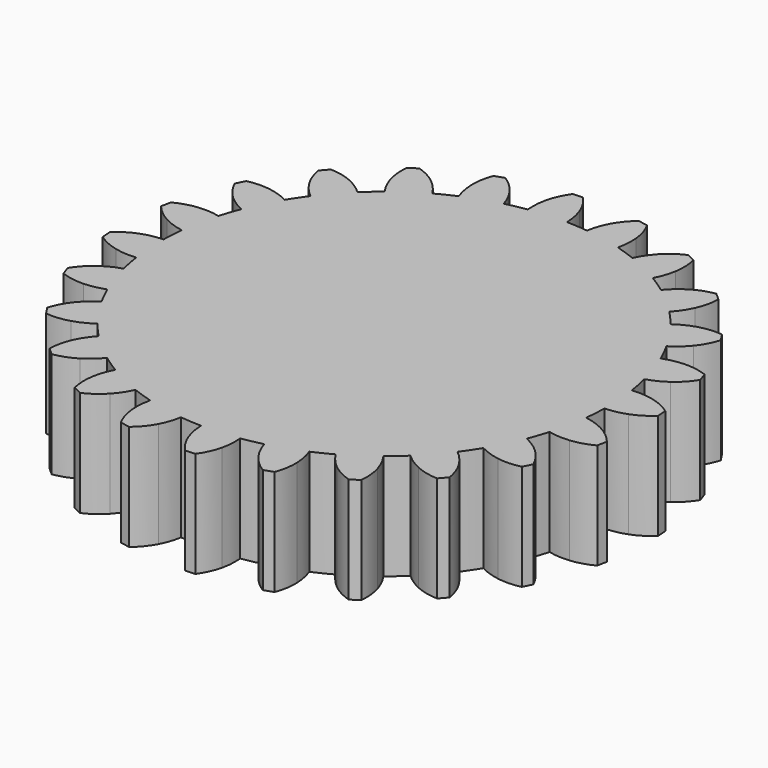
from build123d import *

# Parameters (mm, degrees)
F1_DEPTH = 10


with BuildPart() as f1:
    # F0 (on Top) → F1 (new body)
    with BuildSketch(Plane.XY):
        with BuildLine():
            ThreePointArc((21.146529, -0.383149), (21.149132, -0.191582), (21.15, 0))
            ThreePointArc((21.15, 0), (21.09132, 1.574391), (20.915607, 3.140047))
            ThreePointArc((20.915607, 3.140047), (20.743609, 4.12616), (20.525145, 5.103031))
            ThreePointArc((20.525145, 5.103031), (20.027572, 6.798445), (19.390221, 8.44641))
            ThreePointArc((19.390221, 8.44641), (18.968858, 9.354406), (18.505006, 10.241448))
            ThreePointArc((18.505006, 10.241448), (17.585582, 11.75031), (16.543423, 13.177164))
            ThreePointArc((16.543423, 13.177164), (15.901412, 13.945164), (15.223781, 14.681927))
            ThreePointArc((15.223781, 14.681927), (13.945164, 15.901412), (12.569219, 17.009916))
            ThreePointArc((12.569219, 17.009916), (11.75031, 17.585582), (10.905081, 18.121857))
            ThreePointArc((10.905081, 18.121857), (9.354406, 18.968858), (7.738443, 19.68347))
            ThreePointArc((7.738443, 19.68347), (6.798445, 20.027572), (5.843218, 20.326812))
            ThreePointArc((5.843218, 20.326812), (4.12616, 20.743609), (2.380305, 21.015629))
            ThreePointArc((2.380305, 21.015629), (1.383276, 21.104716), (0.383149, 21.146529))
            ThreePointArc((0.383149, 21.146529), (-1.383276, 21.104716), (-3.140047, 20.915607))
            ThreePointArc((-3.140047, 20.915607), (-4.12616, 20.743609), (-5.103031, 20.525145))
            ThreePointArc((-5.103031, 20.525145), (-6.798445, 20.027572), (-8.44641, 19.390221))
            ThreePointArc((-8.44641, 19.390221), (-9.354406, 18.968858), (-10.241448, 18.505006))
            ThreePointArc((-10.241448, 18.505006), (-11.75031, 17.585582), (-13.177164, 16.543423))
            ThreePointArc((-13.177164, 16.543423), (-13.945164, 15.901412), (-14.681927, 15.223781))
            ThreePointArc((-14.681927, 15.223781), (-15.901412, 13.945164), (-17.009916, 12.569219))
            ThreePointArc((-17.009916, 12.569219), (-17.585582, 11.75031), (-18.121857, 10.905081))
            ThreePointArc((-18.121857, 10.905081), (-18.968858, 9.354406), (-19.68347, 7.738443))
            ThreePointArc((-19.68347, 7.738443), (-20.027572, 6.798445), (-20.326812, 5.843218))
            ThreePointArc((-20.326812, 5.843218), (-20.743609, 4.12616), (-21.015629, 2.380305))
            ThreePointArc((-21.015629, 2.380305), (-21.104716, 1.383276), (-21.146529, 0.383149))
            ThreePointArc((-21.146529, 0.383149), (-21.104716, -1.383276), (-20.915607, -3.140047))
            ThreePointArc((-20.915607, -3.140047), (-20.743609, -4.12616), (-20.525145, -5.103031))
            ThreePointArc((-20.525145, -5.103031), (-20.027572, -6.798445), (-19.390221, -8.44641))
            ThreePointArc((-19.390221, -8.44641), (-18.968858, -9.354406), (-18.505006, -10.241448))
            ThreePointArc((-18.505006, -10.241448), (-17.585582, -11.75031), (-16.543423, -13.177164))
            ThreePointArc((-16.543423, -13.177164), (-15.901412, -13.945164), (-15.223781, -14.681927))
            ThreePointArc((-15.223781, -14.681927), (-13.945164, -15.901412), (-12.569219, -17.009916))
            ThreePointArc((-12.569219, -17.009916), (-11.75031, -17.585582), (-10.905081, -18.121857))
            ThreePointArc((-10.905081, -18.121857), (-9.354406, -18.968858), (-7.738443, -19.68347))
            ThreePointArc((-7.738443, -19.68347), (-6.798445, -20.027572), (-5.843218, -20.326812))
            ThreePointArc((-5.843218, -20.326812), (-4.12616, -20.743609), (-2.380305, -21.015629))
            ThreePointArc((-2.380305, -21.015629), (-1.383276, -21.104716), (-0.383149, -21.146529))
            ThreePointArc((-0.383149, -21.146529), (1.383276, -21.104716), (3.140047, -20.915607))
            ThreePointArc((3.140047, -20.915607), (4.12616, -20.743609), (5.103031, -20.525145))
            ThreePointArc((5.103031, -20.525145), (6.798445, -20.027572), (8.44641, -19.390221))
            ThreePointArc((8.44641, -19.390221), (9.354406, -18.968858), (10.241448, -18.505006))
            ThreePointArc((10.241448, -18.505006), (11.75031, -17.585582), (13.177164, -16.543423))
            ThreePointArc((13.177164, -16.543423), (13.945164, -15.901412), (14.681927, -15.223781))
            ThreePointArc((14.681927, -15.223781), (15.901412, -13.945164), (17.009916, -12.569219))
            ThreePointArc((17.009916, -12.569219), (17.585582, -11.75031), (18.121857, -10.905081))
            ThreePointArc((18.121857, -10.905081), (18.968858, -9.354406), (19.68347, -7.738443))
            ThreePointArc((19.68347, -7.738443), (20.027572, -6.798445), (20.326812, -5.843218))
            ThreePointArc((20.326812, -5.843218), (20.743609, -4.12616), (21.015629, -2.380305))
            ThreePointArc((21.015629, -2.380305), (21.104716, -1.383276), (21.146529, -0.383149))
        make_face()
        with BuildLine():
            ThreePointArc((20.915607, 3.140047), (21.09132, 1.574391), (21.15, 0))
            ThreePointArc((21.15, 0), (21.149132, -0.191582), (21.146529, -0.383149))
            ThreePointArc((21.146529, -0.383149), (22.13915, -0.272568), (23.1, 0))
            ThreePointArc((23.1, 0), (24.094941, 0.491706), (24.972559, 1.171021))
            Line((24.972559, 1.171021), (24.911764, 2.09857))
            ThreePointArc((24.911764, 2.09857), (23.952986, 2.657522), (22.902376, 3.015155))
            ThreePointArc((22.902376, 3.015155), (21.91417, 3.159975), (20.915607, 3.140047))
        make_face()
        with BuildLine():
            ThreePointArc((19.390221, 8.44641), (20.027572, 6.798445), (20.525145, 5.103031))
            ThreePointArc((20.525145, 5.103031), (21.455323, 5.466753), (22.312887, 5.97872))
            ThreePointArc((22.312887, 5.97872), (23.146663, 6.711181), (23.818557, 7.594494))
            Line((23.818557, 7.594494), (23.519767, 8.474702))
            ThreePointArc((23.519767, 8.474702), (22.448991, 8.766458), (21.341617, 8.839987))
            ThreePointArc((21.341617, 8.839987), (20.349601, 8.724106), (19.390221, 8.44641))
        make_face()
        with BuildLine():
            ThreePointArc((22.902376, -3.015155), (21.985324, -2.619503), (21.015629, -2.380305))
            ThreePointArc((21.015629, -2.380305), (20.743609, -4.12616), (20.326812, -5.843218))
            ThreePointArc((20.326812, -5.843218), (21.314231, -5.993314), (22.312887, -5.97872))
            ThreePointArc((22.312887, -5.97872), (23.401189, -5.761278), (24.424722, -5.332254))
            Line((24.424722, -5.332254), (24.606066, -4.420576))
            ThreePointArc((24.606066, -4.420576), (23.824625, -3.63252), (22.902376, -3.015155))
        make_face()
        with BuildLine():
            ThreePointArc((16.543423, 13.177164), (17.585582, 11.75031), (18.505006, 10.241448))
            ThreePointArc((18.505006, 10.241448), (19.309351, 10.833524), (20.005187, 11.55))
            ThreePointArc((20.005187, 11.55), (20.620978, 12.4733), (21.04136, 13.500414))
            Line((21.04136, 13.500414), (20.524936, 14.273297))
            ThreePointArc((20.524936, 14.273297), (19.415134, 14.277974), (18.326462, 14.062389))
            ThreePointArc((18.326462, 14.062389), (17.39824, 13.693704), (16.543423, 13.177164))
        make_face()
        with BuildLine():
            ThreePointArc((21.341617, -8.839987), (20.558215, -8.220466), (19.68347, -7.738443))
            ThreePointArc((19.68347, -7.738443), (18.968858, -9.354406), (18.121857, -10.905081))
            ThreePointArc((18.121857, -10.905081), (19.036783, -11.305626), (20.005187, -11.55))
            ThreePointArc((20.005187, -11.55), (21.112684, -11.621641), (22.212381, -11.472145))
            Line((22.212381, -11.472145), (22.623506, -10.638467))
            ThreePointArc((22.623506, -10.638467), (22.072655, -9.675012), (21.341617, -8.839987))
        make_face()
        with BuildLine():
            ThreePointArc((12.569219, 17.009916), (13.945164, 15.901412), (15.223781, 14.681927))
            ThreePointArc((15.223781, 14.681927), (15.847478, 15.462009), (16.334167, 16.334167))
            ThreePointArc((16.334167, 16.334167), (16.690008, 17.385385), (16.830229, 18.486303))
            Line((16.830229, 18.486303), (16.131364, 19.099191))
            ThreePointArc((16.131364, 19.099191), (15.058167, 18.816471), (14.062389, 18.326462))
            ThreePointArc((14.062389, 18.326462), (13.261218, 17.730098), (12.569219, 17.009916))
        make_face()
        with BuildLine():
            ThreePointArc((18.326462, -14.062389), (17.730098, -13.261218), (17.009916, -12.569219))
            ThreePointArc((17.009916, -12.569219), (15.901412, -13.945164), (14.681927, -15.223781))
            ThreePointArc((14.681927, -15.223781), (15.462009, -15.847478), (16.334167, -16.334167))
            ThreePointArc((16.334167, -16.334167), (17.385385, -16.690008), (18.486303, -16.830229))
            Line((18.486303, -16.830229), (19.099191, -16.131364))
            ThreePointArc((19.099191, -16.131364), (18.816471, -15.058167), (18.326462, -14.062389))
        make_face()
        with BuildLine():
            ThreePointArc((7.738443, 19.68347), (9.354406, 18.968858), (10.905081, 18.121857))
            ThreePointArc((10.905081, 18.121857), (11.305626, 19.036783), (11.55, 20.005187))
            ThreePointArc((11.55, 20.005187), (11.621641, 21.112684), (11.472145, 22.212381))
            Line((11.472145, 22.212381), (10.638467, 22.623506))
            ThreePointArc((10.638467, 22.623506), (9.675012, 22.072655), (8.839987, 21.341617))
            ThreePointArc((8.839987, 21.341617), (8.220466, 20.558215), (7.738443, 19.68347))
        make_face()
        with BuildLine():
            ThreePointArc((14.062389, -18.326462), (13.693704, -17.39824), (13.177164, -16.543423))
            ThreePointArc((13.177164, -16.543423), (11.75031, -17.585582), (10.241448, -18.505006))
            ThreePointArc((10.241448, -18.505006), (10.833524, -19.309351), (11.55, -20.005187))
            ThreePointArc((11.55, -20.005187), (12.4733, -20.620978), (13.500414, -21.04136))
            Line((13.500414, -21.04136), (14.273297, -20.524936))
            ThreePointArc((14.273297, -20.524936), (14.277974, -19.415134), (14.062389, -18.326462))
        make_face()
        with BuildLine():
            ThreePointArc((2.380305, 21.015629), (4.12616, 20.743609), (5.843218, 20.326812))
            ThreePointArc((5.843218, 20.326812), (5.993314, 21.314231), (5.97872, 22.312887))
            ThreePointArc((5.97872, 22.312887), (5.761278, 23.401189), (5.332254, 24.424722))
            Line((5.332254, 24.424722), (4.420576, 24.606066))
            ThreePointArc((4.420576, 24.606066), (3.63252, 23.824625), (3.015155, 22.902376))
            ThreePointArc((3.015155, 22.902376), (2.619503, 21.985324), (2.380305, 21.015629))
        make_face()
        with BuildLine():
            ThreePointArc((8.839987, -21.341617), (8.724106, -20.349601), (8.44641, -19.390221))
            ThreePointArc((8.44641, -19.390221), (6.798445, -20.027572), (5.103031, -20.525145))
            ThreePointArc((5.103031, -20.525145), (5.466753, -21.455323), (5.97872, -22.312887))
            ThreePointArc((5.97872, -22.312887), (6.711181, -23.146663), (7.594494, -23.818557))
            Line((7.594494, -23.818557), (8.474702, -23.519767))
            ThreePointArc((8.474702, -23.519767), (8.766458, -22.448991), (8.839987, -21.341617))
        make_face()
        with BuildLine():
            ThreePointArc((-3.140047, 20.915607), (-1.383276, 21.104716), (0.383149, 21.146529))
            ThreePointArc((0.383149, 21.146529), (0.272568, 22.13915), (0, 23.1))
            ThreePointArc((0, 23.1), (-0.491706, 24.094941), (-1.171021, 24.972559))
            Line((-1.171021, 24.972559), (-2.09857, 24.911764))
            ThreePointArc((-2.09857, 24.911764), (-2.657522, 23.952986), (-3.015155, 22.902376))
            ThreePointArc((-3.015155, 22.902376), (-3.159975, 21.91417), (-3.140047, 20.915607))
        make_face()
        with BuildLine():
            ThreePointArc((3.015155, -22.902376), (3.159975, -21.91417), (3.140047, -20.915607))
            ThreePointArc((3.140047, -20.915607), (1.383276, -21.104716), (-0.383149, -21.146529))
            ThreePointArc((-0.383149, -21.146529), (-0.272568, -22.13915), (0, -23.1))
            ThreePointArc((0, -23.1), (0.491706, -24.094941), (1.171021, -24.972559))
            Line((1.171021, -24.972559), (2.09857, -24.911764))
            ThreePointArc((2.09857, -24.911764), (2.657522, -23.952986), (3.015155, -22.902376))
        make_face()
        with BuildLine():
            ThreePointArc((-8.44641, 19.390221), (-6.798445, 20.027572), (-5.103031, 20.525145))
            ThreePointArc((-5.103031, 20.525145), (-5.466753, 21.455323), (-5.97872, 22.312887))
            ThreePointArc((-5.97872, 22.312887), (-6.711181, 23.146663), (-7.594494, 23.818557))
            Line((-7.594494, 23.818557), (-8.474702, 23.519767))
            ThreePointArc((-8.474702, 23.519767), (-8.766458, 22.448991), (-8.839987, 21.341617))
            ThreePointArc((-8.839987, 21.341617), (-8.724106, 20.349601), (-8.44641, 19.390221))
        make_face()
        with BuildLine():
            ThreePointArc((-3.015155, -22.902376), (-2.619503, -21.985324), (-2.380305, -21.015629))
            ThreePointArc((-2.380305, -21.015629), (-4.12616, -20.743609), (-5.843218, -20.326812))
            ThreePointArc((-5.843218, -20.326812), (-5.993314, -21.314231), (-5.97872, -22.312887))
            ThreePointArc((-5.97872, -22.312887), (-5.761278, -23.401189), (-5.332254, -24.424722))
            Line((-5.332254, -24.424722), (-4.420576, -24.606066))
            ThreePointArc((-4.420576, -24.606066), (-3.63252, -23.824625), (-3.015155, -22.902376))
        make_face()
        with BuildLine():
            ThreePointArc((-13.177164, 16.543423), (-11.75031, 17.585582), (-10.241448, 18.505006))
            ThreePointArc((-10.241448, 18.505006), (-10.833524, 19.309351), (-11.55, 20.005187))
            ThreePointArc((-11.55, 20.005187), (-12.4733, 20.620978), (-13.500414, 21.04136))
            Line((-13.500414, 21.04136), (-14.273297, 20.524936))
            ThreePointArc((-14.273297, 20.524936), (-14.277974, 19.415134), (-14.062389, 18.326462))
            ThreePointArc((-14.062389, 18.326462), (-13.693704, 17.39824), (-13.177164, 16.543423))
        make_face()
        with BuildLine():
            ThreePointArc((-8.839987, -21.341617), (-8.220466, -20.558215), (-7.738443, -19.68347))
            ThreePointArc((-7.738443, -19.68347), (-9.354406, -18.968858), (-10.905081, -18.121857))
            ThreePointArc((-10.905081, -18.121857), (-11.305626, -19.036783), (-11.55, -20.005187))
            ThreePointArc((-11.55, -20.005187), (-11.621641, -21.112684), (-11.472145, -22.212381))
            Line((-11.472145, -22.212381), (-10.638467, -22.623506))
            ThreePointArc((-10.638467, -22.623506), (-9.675012, -22.072655), (-8.839987, -21.341617))
        make_face()
        with BuildLine():
            ThreePointArc((-17.009916, 12.569219), (-15.901412, 13.945164), (-14.681927, 15.223781))
            ThreePointArc((-14.681927, 15.223781), (-15.462009, 15.847478), (-16.334167, 16.334167))
            ThreePointArc((-16.334167, 16.334167), (-17.385385, 16.690008), (-18.486303, 16.830229))
            Line((-18.486303, 16.830229), (-19.099191, 16.131364))
            ThreePointArc((-19.099191, 16.131364), (-18.816471, 15.058167), (-18.326462, 14.062389))
            ThreePointArc((-18.326462, 14.062389), (-17.730098, 13.261218), (-17.009916, 12.569219))
        make_face()
        with BuildLine():
            ThreePointArc((-14.062389, -18.326462), (-13.261218, -17.730098), (-12.569219, -17.009916))
            ThreePointArc((-12.569219, -17.009916), (-13.945164, -15.901412), (-15.223781, -14.681927))
            ThreePointArc((-15.223781, -14.681927), (-15.847478, -15.462009), (-16.334167, -16.334167))
            ThreePointArc((-16.334167, -16.334167), (-16.690008, -17.385385), (-16.830229, -18.486303))
            Line((-16.830229, -18.486303), (-16.131364, -19.099191))
            ThreePointArc((-16.131364, -19.099191), (-15.058167, -18.816471), (-14.062389, -18.326462))
        make_face()
        with BuildLine():
            ThreePointArc((-19.68347, 7.738443), (-18.968858, 9.354406), (-18.121857, 10.905081))
            ThreePointArc((-18.121857, 10.905081), (-19.036783, 11.305626), (-20.005187, 11.55))
            ThreePointArc((-20.005187, 11.55), (-21.112684, 11.621641), (-22.212381, 11.472145))
            Line((-22.212381, 11.472145), (-22.623506, 10.638467))
            ThreePointArc((-22.623506, 10.638467), (-22.072655, 9.675012), (-21.341617, 8.839987))
            ThreePointArc((-21.341617, 8.839987), (-20.558215, 8.220466), (-19.68347, 7.738443))
        make_face()
        with BuildLine():
            ThreePointArc((-18.326462, -14.062389), (-17.39824, -13.693704), (-16.543423, -13.177164))
            ThreePointArc((-16.543423, -13.177164), (-17.585582, -11.75031), (-18.505006, -10.241448))
            ThreePointArc((-18.505006, -10.241448), (-19.309351, -10.833524), (-20.005187, -11.55))
            ThreePointArc((-20.005187, -11.55), (-20.620978, -12.4733), (-21.04136, -13.500414))
            Line((-21.04136, -13.500414), (-20.524936, -14.273297))
            ThreePointArc((-20.524936, -14.273297), (-19.415134, -14.277974), (-18.326462, -14.062389))
        make_face()
        with BuildLine():
            ThreePointArc((-21.015629, 2.380305), (-20.743609, 4.12616), (-20.326812, 5.843218))
            ThreePointArc((-20.326812, 5.843218), (-21.314231, 5.993314), (-22.312887, 5.97872))
            ThreePointArc((-22.312887, 5.97872), (-23.401189, 5.761278), (-24.424722, 5.332254))
            Line((-24.424722, 5.332254), (-24.606066, 4.420576))
            ThreePointArc((-24.606066, 4.420576), (-23.824625, 3.63252), (-22.902376, 3.015155))
            ThreePointArc((-22.902376, 3.015155), (-21.985324, 2.619503), (-21.015629, 2.380305))
        make_face()
        with BuildLine():
            ThreePointArc((-21.341617, -8.839987), (-20.349601, -8.724106), (-19.390221, -8.44641))
            ThreePointArc((-19.390221, -8.44641), (-20.027572, -6.798445), (-20.525145, -5.103031))
            ThreePointArc((-20.525145, -5.103031), (-21.455323, -5.466753), (-22.312887, -5.97872))
            ThreePointArc((-22.312887, -5.97872), (-23.146663, -6.711181), (-23.818557, -7.594494))
            Line((-23.818557, -7.594494), (-23.519767, -8.474702))
            ThreePointArc((-23.519767, -8.474702), (-22.448991, -8.766458), (-21.341617, -8.839987))
        make_face()
        with BuildLine():
            ThreePointArc((-20.915607, -3.140047), (-21.104716, -1.383276), (-21.146529, 0.383149))
            ThreePointArc((-21.146529, 0.383149), (-22.13915, 0.272568), (-23.1, 0))
            ThreePointArc((-23.1, 0), (-24.094941, -0.491706), (-24.972559, -1.171021))
            Line((-24.972559, -1.171021), (-24.911764, -2.09857))
            ThreePointArc((-24.911764, -2.09857), (-23.952986, -2.657522), (-22.902376, -3.015155))
            ThreePointArc((-22.902376, -3.015155), (-21.91417, -3.159975), (-20.915607, -3.140047))
        make_face()
    extrude(amount=F1_DEPTH)


solid = f1.part
